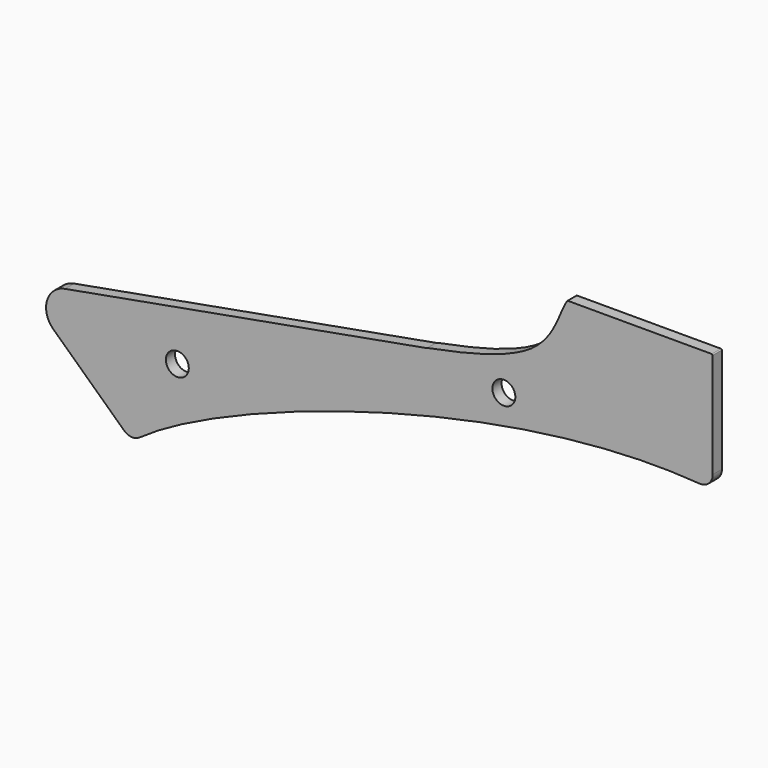
from build123d import *

# Parameters (mm, degrees)
F0_R     = 4.7625
F1_DEPTH = 4.7625
F2_R     = 5.08
F3_R     = 9.525
F4_R     = 0.381


with BuildPart() as f1:
    # F0 (on Front) → F1 (new body)
    with BuildSketch(Plane.XZ):
        with BuildLine():
            Line((60.1429268718, 16.5254306048), (-108.8427143228, -14.0530352161))
            Line((-108.8427143228, -14.0530352161), (-62.451031059, -57.4127137661))
            add(Edge.make_bspline(
                [(-62.451031059, -57.4127137661), (-50.1643598375, -47.5249055274), (10.3220797139, -17.4381564578), (123.773567881, 8.9901031394), (178.848968941, 3.3361169696)],
                knots=[0, 0, 0, 0, 0.398250962, 1, 1, 1, 1], degree=3))
            Line((178.848968941, 3.3361169696), (178.848968941, 52.8661169696))
            Line((178.848968941, 52.8661169696), (118.523968941, 52.8661169696))
            add(Edge.make_bspline(
                [(118.523968941, 52.8661169696), (115.1404463597, 48.2467955264), (112.3015113048, 24.068977806), (60.9008384489, 17.214194077), (60.1429268718, 16.5254306048)],
                knots=[0, 0, 0, 0, 0.4347885114, 1, 1, 1, 1], degree=3))
        make_face()
        with Locations((-43.4938967228, -22.9803621769)):
            Circle(F0_R, mode=Mode.SUBTRACT)
        with Locations((92.106996992, 10.612607679)):
            Circle(F0_R, mode=Mode.SUBTRACT)
    extrude(amount=F1_DEPTH)

    # F2
    f2_edges = [f1.edges().sort_by_distance(p)[0] for p in [
        (-62.451031, -2.38125, -57.412714),
        (178.848969, -2.38125, 3.336117),
    ]]
    fillet(f2_edges, radius=F2_R)

    # F3
    f3_edges = [f1.edges().sort_by_distance(p)[0] for p in [
        (-108.842714, -2.38125, -14.053035),
    ]]
    fillet(f3_edges, radius=F3_R)

    # F4
    f4_edges = [f1.edges().sort_by_distance(p)[0] for p in [
        (178.848969, -2.38125, 52.866117),
        (118.523969, -2.38125, 52.866117),
    ]]
    fillet(f4_edges, radius=F4_R)


solid = f1.part
